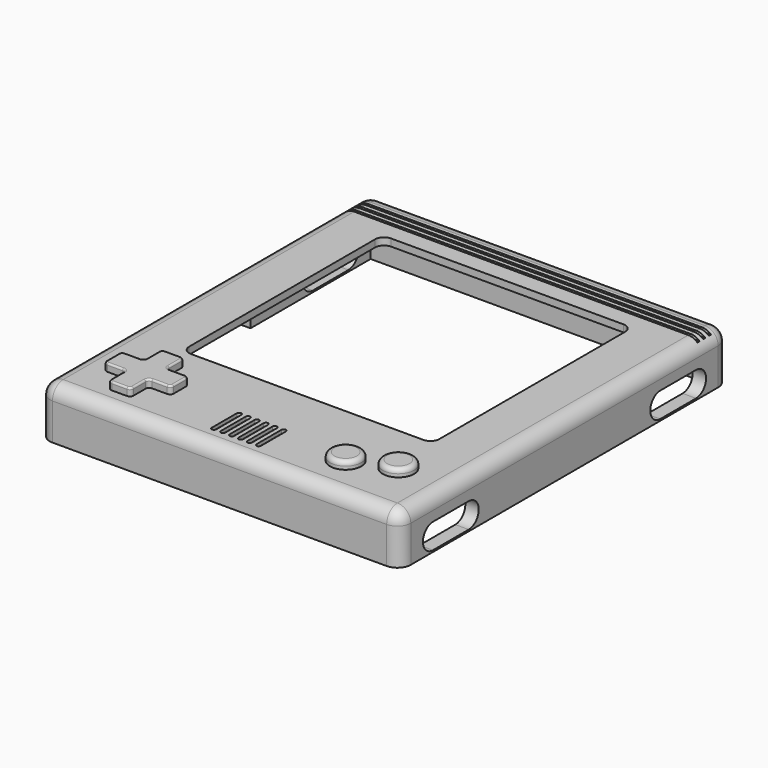
from build123d import *

# Parameters (mm, degrees)
SKETCH005_W     = 40.4
SKETCH005_H     = 46
PAD003_DEPTH    = 5.6
SKETCH006_W     = 9
SKETCH006_H     = 2.4
POCKET002_DEPTH = 2
SKETCH007_W     = 37.4
SKETCH007_H     = 43
POCKET003_DEPTH = 5.62
POCKET004_DEPTH = 1
POCKET007_DEPTH = 2
POCKET008_DEPTH = 2
SKETCH024_R     = 1.75
PAD006_DEPTH    = 0.86
FILLET_R        = 0.4
FILLET001_R     = 0.5
FILLET002_R     = 0.2
FILLET003_R     = 1.5
SKETCH014_W     = 40.4
SKETCH014_H     = 0.3
POCKET016_DEPTH = 0.4


with BuildPart() as part:
    # Sketch005 → Pad003 (new body)
    with BuildSketch(Plane.XY):
        with Locations((18.2, 26.2)):
            Rectangle(SKETCH005_W, SKETCH005_H)
    extrude(amount=-PAD003_DEPTH)

    # Sketch006 (on Face4 of Pad003) → Pocket002 (cut)
    with BuildSketch(Plane(origin=(-2, 0, 0), x_dir=(0, -1, 0), z_dir=(-1, 0, 0))):
        with Locations((-26.4, -5.02)):
            Rectangle(SKETCH006_W, SKETCH006_H)
    extrude(amount=-POCKET002_DEPTH, mode=Mode.SUBTRACT)

    # Sketch007 → Pocket003 (cut)
    with BuildSketch(Plane.XY.offset(-0.8)):
        with Locations((18.2, 26.2)):
            Rectangle(SKETCH007_W, SKETCH007_H)
    extrude(amount=-POCKET003_DEPTH, mode=Mode.SUBTRACT)

    # Sketch008 (on Face4 of Pocket003) → Pocket004 (cut)
    with BuildSketch(Plane.XY):
        with BuildLine():
            ThreePointArc((31.2, 15.45), (31.907107, 15.742893), (32.2, 16.45))
            Line((32.2, 42.45), (32.2, 16.45))
            ThreePointArc((32.2, 42.45), (31.907107, 43.157107), (31.2, 43.45))
            Line((5.2, 43.45), (31.2, 43.45))
            ThreePointArc((5.2, 43.45), (4.492893, 43.157107), (4.2, 42.45))
            Line((4.2, 16.45), (4.2, 42.45))
            ThreePointArc((4.2, 16.45), (4.492893, 15.742893), (5.2, 15.45))
            Line((5.2, 15.45), (31.2, 15.45))
        make_face()
    extrude(amount=-POCKET004_DEPTH, mode=Mode.SUBTRACT)

    # Sketch012 (on Face2 of Pocket004) → Pocket007 (cut)
    with BuildSketch(Plane(origin=(-2, 0, 0), x_dir=(0, -1, 0), z_dir=(-1, 0, 0))):
        with BuildLine():
            ThreePointArc((-44.6, -2.62), (-46, -4.02), (-44.6, -5.42))
            Line((-44.6, -5.42), (-39.6, -5.42))
            ThreePointArc((-39.6, -5.42), (-38.2, -4.02), (-39.6, -2.62))
            Line((-39.6, -2.62), (-44.6, -2.62))
        make_face()
        with BuildLine():
            ThreePointArc((-12.8, -2.62), (-14.2, -4.02), (-12.8, -5.42))
            Line((-12.8, -5.42), (-7.8, -5.42))
            ThreePointArc((-7.8, -5.42), (-6.4, -4.02), (-7.8, -2.62))
            Line((-7.8, -2.62), (-12.8, -2.62))
        make_face()
    extrude(amount=-POCKET007_DEPTH, mode=Mode.SUBTRACT)

    # Sketch013 (on Face3 of Pocket007) → Pocket008 (cut)
    with BuildSketch(Plane.YZ.offset(38.4)):
        with BuildLine():
            ThreePointArc((39.6, -2.62), (38.2, -4.02), (39.6, -5.42))
            Line((39.6, -5.42), (44.6, -5.42))
            ThreePointArc((44.6, -5.42), (46, -4.02), (44.6, -2.62))
            Line((44.6, -2.62), (39.6, -2.62))
        make_face()
        with BuildLine():
            ThreePointArc((7.8, -2.62), (6.4, -4.02), (7.8, -5.42))
            Line((7.8, -5.42), (12.8, -5.42))
            ThreePointArc((12.8, -5.42), (14.2, -4.02), (12.8, -2.62))
            Line((12.8, -2.62), (7.8, -2.62))
        make_face()
    extrude(amount=-POCKET008_DEPTH, mode=Mode.SUBTRACT)

    # Sketch024 → Pad006 (join)
    with BuildSketch(Plane.XY):
        with Locations((28.35, 8.15)):
            Circle(SKETCH024_R)
        with Locations((32.85, 9.9)):
            Circle(SKETCH024_R)
        Polygon((1.2, 10.75), (3.7, 10.75), (3.7, 13.25), (6.2, 13.25), (6.2, 10.75), (8.7, 10.75), (8.7, 8.25), (6.2, 8.25), (6.2, 5.75), (3.7, 5.75), (3.7, 8.25), (1.2, 8.25), align=None)
    extrude(amount=PAD006_DEPTH)

    # Fillet
    fillet_edges = [part.edges().sort_by_distance(p)[0] for p in [
        (1.2, 8.25, 0.43),
        (3.7, 8.25, 0.43),
        (3.7, 5.75, 0.43),
        (6.2, 5.75, 0.43),
        (1.2, 10.75, 0.43),
        (3.7, 10.75, 0.43),
        (3.7, 13.25, 0.43),
        (6.2, 13.25, 0.43),
        (6.2, 10.75, 0.43),
        (8.7, 10.75, 0.43),
        (8.7, 8.25, 0.43),
        (6.2, 8.25, 0.43),
    ]]
    fillet(fillet_edges, radius=FILLET_R)

    # Fillet001
    fillet001_edges = [part.edges().sort_by_distance(p)[0] for p in [
        (31.1, 9.9, 0.86),
        (26.6, 8.15, 0.86),
    ]]
    fillet(fillet001_edges, radius=FILLET001_R)

    # Fillet002
    fillet002_edges = [part.edges().sort_by_distance(p)[0] for p in [
        (3.7, 12, 0.86),
        (4.95, 13.25, 0.86),
        (6.2, 12, 0.86),
        (7.45, 10.75, 0.86),
        (8.7, 9.5, 0.86),
        (7.45, 8.25, 0.86),
        (6.2, 7, 0.86),
        (4.95, 5.75, 0.86),
        (3.7, 7, 0.86),
        (2.45, 8.25, 0.86),
        (1.2, 9.5, 0.86),
        (2.45, 10.75, 0.86),
    ]]
    fillet(fillet002_edges, radius=FILLET002_R)

    # Fillet003
    fillet003_edges = [part.edges().sort_by_distance(p)[0] for p in [
        (-2, 49.2, -2.8),
        (18.2, 49.2, 0),
        (-2, 26.2, 0),
        (38.4, 26.2, 0),
        (18.2, 3.2, 0),
        (-2, 3.2, -2.8),
        (38.4, 3.2, -2.8),
        (38.4, 49.2, -2.8),
    ]]
    fillet(fillet003_edges, radius=FILLET003_R)

    # Sketch014 (on Face4 of Pocket004) → Pocket016 (cut)
    with BuildSketch(Plane(origin=(-2, 0, 0), x_dir=(1, 0, 0), z_dir=(0, 0, 1))):
        with BuildLine():
            ThreePointArc((17.83, 9.2), (17.58, 9.45), (17.33, 9.2))
            Line((17.33, 9.2), (17.33, 5.7))
            ThreePointArc((17.33, 5.7), (17.58, 5.45), (17.83, 5.7))
            Line((17.83, 5.7), (17.83, 9.2))
        make_face()
        with BuildLine():
            ThreePointArc((18.83, 9.2), (18.58, 9.45), (18.33, 9.2))
            Line((18.33, 9.2), (18.33, 5.7))
            ThreePointArc((18.33, 5.7), (18.58, 5.45), (18.83, 5.7))
            Line((18.83, 5.7), (18.83, 9.2))
        make_face()
        with BuildLine():
            ThreePointArc((19.83, 9.2), (19.58, 9.45), (19.33, 9.2))
            Line((19.33, 9.2), (19.33, 5.7))
            ThreePointArc((19.33, 5.7), (19.58, 5.45), (19.83, 5.7))
            Line((19.83, 5.7), (19.83, 9.2))
        make_face()
        with BuildLine():
            ThreePointArc((20.83, 9.2), (20.58, 9.45), (20.33, 9.2))
            Line((20.33, 9.2), (20.33, 5.7))
            ThreePointArc((20.33, 5.7), (20.58, 5.45), (20.83, 5.7))
            Line((20.83, 5.7), (20.83, 9.2))
        make_face()
        with BuildLine():
            ThreePointArc((21.83, 9.2), (21.58, 9.45), (21.33, 9.2))
            Line((21.33, 9.2), (21.33, 5.7))
            ThreePointArc((21.33, 5.7), (21.58, 5.45), (21.83, 5.7))
            Line((21.83, 5.7), (21.83, 9.2))
        make_face()
        with BuildLine():
            ThreePointArc((22.83, 9.2), (22.58, 9.45), (22.33, 9.2))
            Line((22.33, 9.2), (22.33, 5.7))
            ThreePointArc((22.33, 5.7), (22.58, 5.45), (22.83, 5.7))
            Line((22.83, 5.7), (22.83, 9.2))
        make_face()
        with Locations((20.2, 46.35)):
            Rectangle(SKETCH014_W, SKETCH014_H)
        with Locations((20.2, 45.55)):
            Rectangle(SKETCH014_W, SKETCH014_H)
        with Locations((20.2, 47.15)):
            Rectangle(SKETCH014_W, SKETCH014_H)
    extrude(amount=-POCKET016_DEPTH, mode=Mode.SUBTRACT)


with BuildPart() as part_1:
    # Body003 placement: moved
    add(part.part.moved(Location((0, 0, 12.51))))


solid = part_1.part
